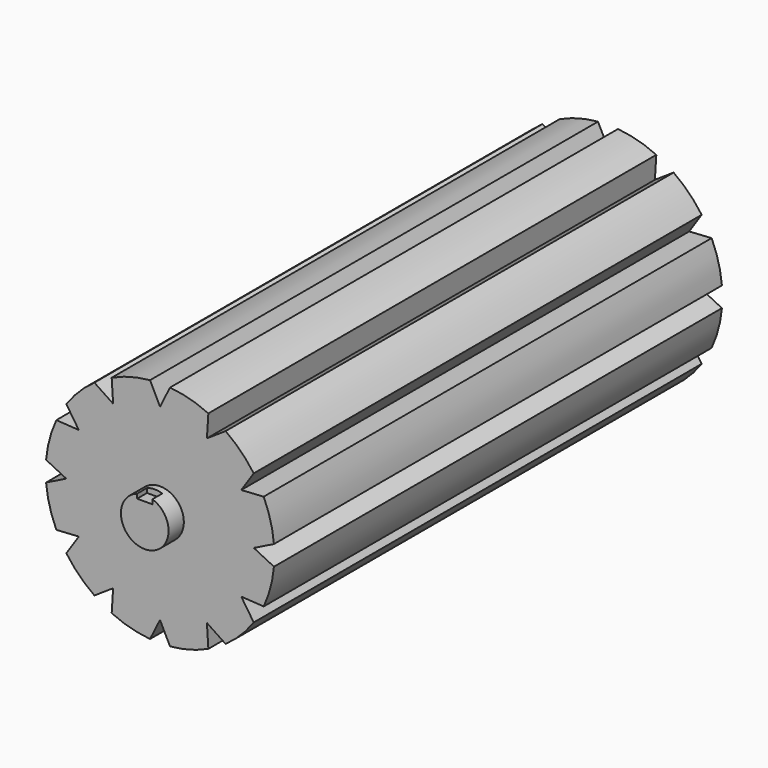
from build123d import *

# Parameters (mm, degrees)
F1_DEPTH = 587.5
F2_R     = 25
F3_DEPTH = 7.5
F4_R     = 25
F5_DEPTH = 20
F6_W     = 16
F6_H     = 7.0096296601
F7_DEPTH = 13


with BuildPart() as f1:
    # F0 (on Front) → F1 (new body)
    with BuildSketch(Plane.XZ):
        with BuildLine():
            Line((98.404571414, 0), (119.5426846988, 10.4664480605))
            ThreePointArc((119.5426846988, 10.4664480605), (115.9110991547, 31.0582854123), (108.760225816, 50.7071324417))
            Line((108.760225816, 50.7071324417), (85.220858693, 49.202285707))
            Line((85.220858693, 49.202285707), (98.2937777555, 68.8355522572))
            ThreePointArc((98.2937777555, 68.8355522572), (84.8528137424, 84.8528137424), (68.8355522572, 98.2937777555))
            Line((68.8355522572, 98.2937777555), (49.202285707, 85.220858693))
            Line((49.202285707, 85.220858693), (50.7071324417, 108.760225816))
            ThreePointArc((50.7071324417, 108.760225816), (31.0582854123, 115.9110991547), (10.4664480605, 119.5426846988))
            Line((10.4664480605, 119.5426846988), (0, 98.404571414))
            Line((0, 98.404571414), (-10.4664480605, 119.5426846988))
            ThreePointArc((-10.4664480605, 119.5426846988), (-31.0582854123, 115.9110991547), (-50.7071324417, 108.760225816))
            Line((-50.7071324417, 108.760225816), (-49.202285707, 85.220858693))
            Line((-49.202285707, 85.220858693), (-68.8355522572, 98.2937777555))
            ThreePointArc((-68.8355522572, 98.2937777555), (-84.8528137424, 84.8528137424), (-98.2937777555, 68.8355522572))
            Line((-98.2937777555, 68.8355522572), (-85.220858693, 49.202285707))
            Line((-85.220858693, 49.202285707), (-108.760225816, 50.7071324417))
            ThreePointArc((-108.760225816, 50.7071324417), (-115.9110991547, 31.0582854123), (-119.5426846988, 10.4664480605))
            Line((-119.5426846988, 10.4664480605), (-98.404571414, 0))
            Line((-98.404571414, 0), (-119.5426846988, -10.4664480605))
            ThreePointArc((-119.5426846988, -10.4664480605), (-115.9110991547, -31.0582854123), (-108.760225816, -50.7071324417))
            Line((-108.760225816, -50.7071324417), (-85.220858693, -49.202285707))
            Line((-85.220858693, -49.202285707), (-98.2937777555, -68.8355522572))
            ThreePointArc((-98.2937777555, -68.8355522572), (-84.8528137424, -84.8528137424), (-68.8355522572, -98.2937777555))
            Line((-68.8355522572, -98.2937777555), (-49.202285707, -85.220858693))
            Line((-49.202285707, -85.220858693), (-50.7071324417, -108.760225816))
            ThreePointArc((-50.7071324417, -108.760225816), (-31.0582854123, -115.9110991547), (-10.4664480605, -119.5426846988))
            Line((-10.4664480605, -119.5426846988), (0, -98.404571414))
            Line((0, -98.404571414), (10.4664480605, -119.5426846988))
            ThreePointArc((10.4664480605, -119.5426846988), (31.0582854123, -115.9110991547), (50.7071324417, -108.760225816))
            Line((50.7071324417, -108.760225816), (49.202285707, -85.220858693))
            Line((49.202285707, -85.220858693), (68.8355522572, -98.2937777555))
            ThreePointArc((68.8355522572, -98.2937777555), (84.8528137424, -84.8528137424), (98.2937777555, -68.8355522572))
            Line((98.2937777555, -68.8355522572), (85.220858693, -49.202285707))
            Line((85.220858693, -49.202285707), (108.760225816, -50.7071324417))
            ThreePointArc((108.760225816, -50.7071324417), (115.9110991547, -31.0582854123), (119.5426846988, -10.4664480605))
            Line((119.5426846988, -10.4664480605), (98.404571414, 0))
        make_face()
    extrude(amount=F1_DEPTH)

    # F2 (on face) → F3 (join)
    with BuildSketch(Plane(origin=(0, 0, 0), x_dir=(-1, 0, 0), z_dir=(0, 1, 0))):
        Circle(F2_R)
    extrude(amount=F3_DEPTH)

    # F4 (on face) → F5 (join)
    with BuildSketch(Plane.XZ.offset(587.5)):
        Circle(F4_R)
    extrude(amount=F5_DEPTH)

    # F6 (on face) → F7 (cut)
    with BuildSketch(Plane.XZ.offset(607.5)):
        with Locations((0, 22.50481483)):
            Rectangle(F6_W, F6_H)
    extrude(amount=-F7_DEPTH, mode=Mode.SUBTRACT)


solid = f1.part
